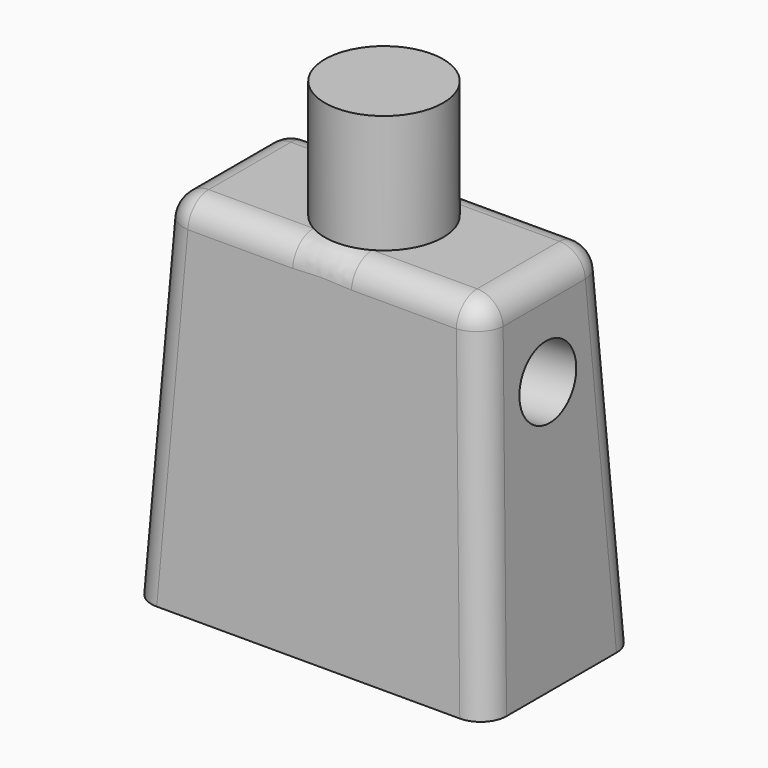
from build123d import *

# Parameters (mm, degrees)
F0_W     = 15
F0_H     = 8
F1_DEPTH = 15
F1_TAPER = 3
F2_R     = 2.5
F3_DEPTH = 5
F4_R     = 1.1
F5_R     = 1.5
F6_DEPTH = 3
F7_R     = 1.5
F8_DEPTH = 3


with BuildPart() as f1:
    # F0 (on Top) → F1 (new body)
    with BuildSketch(Plane.XY):
        Rectangle(F0_W, F0_H)
    extrude(amount=F1_DEPTH, taper=F1_TAPER)

    # F2 (on face) → F3 (join)
    with BuildSketch(Plane.XY.offset(15)):
        Circle(F2_R)
    extrude(amount=F3_DEPTH)

    # F4
    f4_edges = [f1.edges().sort_by_distance(p)[0] for p in [
        (7.106942, 3.606942, 7.5),
        (-7.106942, 3.606942, 7.5),
        (0, 3.213883, 15),
        (-6.713883, 0, 15),
        (6.713883, 0, 15),
        (0, -3.213883, 15),
        (7.106942, -3.606942, 7.5),
        (-7.106942, -3.606942, 7.5),
    ]]
    fillet(f4_edges, radius=F4_R)

    # F5 (on face) → F6 (cut)
    with BuildSketch(Plane(origin=(-7.4794571076, 0, 0.3919817373), x_dir=(0, -1, 0), z_dir=(-0.9986295348, 0, 0.0523359562))):
        with Locations((0, 10.682696983)):
            Circle(F5_R)
    extrude(amount=-F6_DEPTH, mode=Mode.SUBTRACT)

    # F7 (on face) → F8 (cut)
    with BuildSketch(Plane(origin=(7.4794571076, 0, 0.3919817373), x_dir=(0, 1, 0), z_dir=(0.9986295348, 0, 0.0523359562))):
        with Locations((0, 10.682696983)):
            Circle(F7_R)
    extrude(amount=-F8_DEPTH, mode=Mode.SUBTRACT)


solid = f1.part
